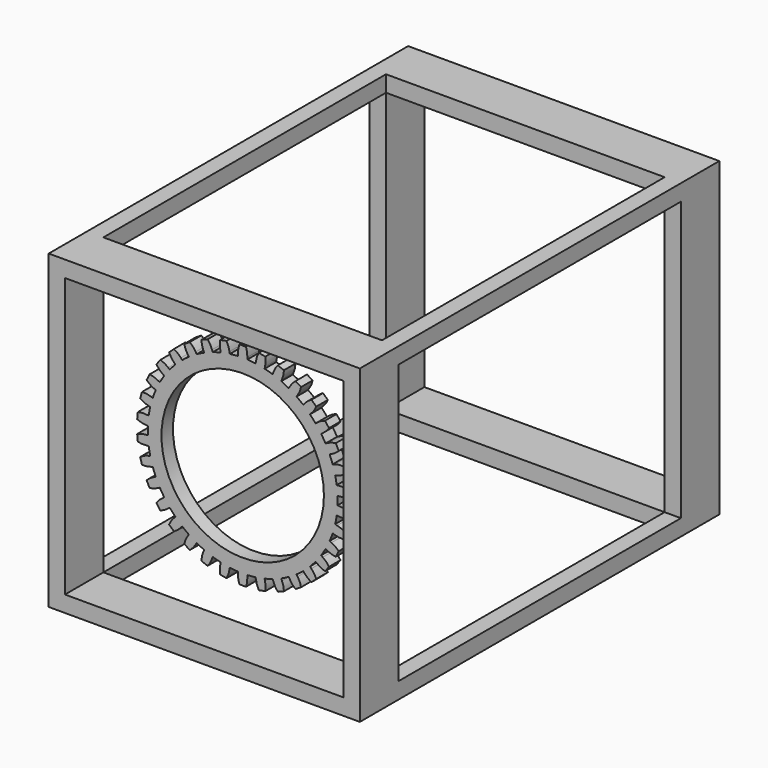
from build123d import *

# Parameters (mm, degrees)
F1_DEPTH = 7.62
F3_COUNT = 34
F0_R     = 42.9842697486
F4_DEPTH = 7.62
F5_W     = 8.5981115699
F5_H     = 8.5981115699
F5_H_2   = 147.4519222975
F5_W_2   = 147.4519222975
F6_DEPTH = 25.4
F7_DEPTH = 93.472


with BuildPart() as f1:
    # F0 (on Front) → F1 (new body)
    with BuildSketch(Plane.XZ):
        with BuildLine():
            Line((-2.442196905, 51.2510985136), (-2.442196905, 50.1810373966))
            ThreePointArc((-2.442196905, 50.1810373966), (-1.2214595003, 50.2255799031), (0, 50.2404303317))
            Line((0, 50.2404303317), (0, 55.908292532))
            Line((0, 55.908292532), (-1.7368304543, 55.908292532))
            add(Edge.make_bspline(
                [(-1.7368304543, 55.908292532), (-2.1937624551, 54.2130805552), (-2.442196905, 53.8102649152), (-2.442196905, 51.2510985136)],
                knots=[0, 0, 0, 0, 4.7103076284, 4.7103076284, 4.7103076284, 4.7103076284], degree=3))
        make_face()
        with BuildLine():
            ThreePointArc((0, 50.2404303317), (1.2214595003, 50.2255799031), (2.442196905, 50.1810373966))
            Line((2.442196905, 50.1810373966), (2.442196905, 51.2510985136))
            add(Edge.make_bspline(
                [(1.7368304543, 55.908292532), (2.1937624551, 54.2130805552), (2.442196905, 53.8102649152), (2.442196905, 51.2510985136)],
                knots=[0, 0, 0, 0, 4.7103076284, 4.7103076284, 4.7103076284, 4.7103076284], degree=3))
            Line((1.7368304543, 55.908292532), (0, 55.908292532))
            Line((0, 55.908292532), (0, 50.2404303317))
        make_face()
    extrude(amount=F1_DEPTH)


with BuildPart() as f3_1:
    # F3: instance of F1
    add(f1.part.rotate(Axis((0, -13.2732940838, 0), (0, -1, 0)), 1 * 360 / F3_COUNT))


with BuildPart() as f3_2:
    # F3: instance of F1
    add(f1.part.rotate(Axis((0, -13.2732940838, 0), (0, -1, 0)), 2 * 360 / F3_COUNT))


with BuildPart() as f3_3:
    # F3: instance of F1
    add(f1.part.rotate(Axis((0, -13.2732940838, 0), (0, -1, 0)), 3 * 360 / F3_COUNT))


with BuildPart() as f3_4:
    # F3: instance of F1
    add(f1.part.rotate(Axis((0, -13.2732940838, 0), (0, -1, 0)), 4 * 360 / F3_COUNT))


with BuildPart() as f3_5:
    # F3: instance of F1
    add(f1.part.rotate(Axis((0, -13.2732940838, 0), (0, -1, 0)), 5 * 360 / F3_COUNT))


with BuildPart() as f3_6:
    # F3: instance of F1
    add(f1.part.rotate(Axis((0, -13.2732940838, 0), (0, -1, 0)), 6 * 360 / F3_COUNT))


with BuildPart() as f3_7:
    # F3: instance of F1
    add(f1.part.rotate(Axis((0, -13.2732940838, 0), (0, -1, 0)), 7 * 360 / F3_COUNT))


with BuildPart() as f3_8:
    # F3: instance of F1
    add(f1.part.rotate(Axis((0, -13.2732940838, 0), (0, -1, 0)), 8 * 360 / F3_COUNT))


with BuildPart() as f3_9:
    # F3: instance of F1
    add(f1.part.rotate(Axis((0, -13.2732940838, 0), (0, -1, 0)), 9 * 360 / F3_COUNT))


with BuildPart() as f3_10:
    # F3: instance of F1
    add(f1.part.rotate(Axis((0, -13.2732940838, 0), (0, -1, 0)), 10 * 360 / F3_COUNT))


with BuildPart() as f3_11:
    # F3: instance of F1
    add(f1.part.rotate(Axis((0, -13.2732940838, 0), (0, -1, 0)), 11 * 360 / F3_COUNT))


with BuildPart() as f3_12:
    # F3: instance of F1
    add(f1.part.rotate(Axis((0, -13.2732940838, 0), (0, -1, 0)), 12 * 360 / F3_COUNT))


with BuildPart() as f3_13:
    # F3: instance of F1
    add(f1.part.rotate(Axis((0, -13.2732940838, 0), (0, -1, 0)), 13 * 360 / F3_COUNT))


with BuildPart() as f3_14:
    # F3: instance of F1
    add(f1.part.rotate(Axis((0, -13.2732940838, 0), (0, -1, 0)), 14 * 360 / F3_COUNT))


with BuildPart() as f3_15:
    # F3: instance of F1
    add(f1.part.rotate(Axis((0, -13.2732940838, 0), (0, -1, 0)), 15 * 360 / F3_COUNT))


with BuildPart() as f3_16:
    # F3: instance of F1
    add(f1.part.rotate(Axis((0, -13.2732940838, 0), (0, -1, 0)), 16 * 360 / F3_COUNT))


with BuildPart() as f3_17:
    # F3: instance of F1
    add(f1.part.rotate(Axis((0, -13.2732940838, 0), (0, -1, 0)), 17 * 360 / F3_COUNT))


with BuildPart() as f3_18:
    # F3: instance of F1
    add(f1.part.rotate(Axis((0, -13.2732940838, 0), (0, -1, 0)), 18 * 360 / F3_COUNT))


with BuildPart() as f3_19:
    # F3: instance of F1
    add(f1.part.rotate(Axis((0, -13.2732940838, 0), (0, -1, 0)), 19 * 360 / F3_COUNT))


with BuildPart() as f3_20:
    # F3: instance of F1
    add(f1.part.rotate(Axis((0, -13.2732940838, 0), (0, -1, 0)), 20 * 360 / F3_COUNT))


with BuildPart() as f3_21:
    # F3: instance of F1
    add(f1.part.rotate(Axis((0, -13.2732940838, 0), (0, -1, 0)), 21 * 360 / F3_COUNT))


with BuildPart() as f3_22:
    # F3: instance of F1
    add(f1.part.rotate(Axis((0, -13.2732940838, 0), (0, -1, 0)), 22 * 360 / F3_COUNT))


with BuildPart() as f3_23:
    # F3: instance of F1
    add(f1.part.rotate(Axis((0, -13.2732940838, 0), (0, -1, 0)), 23 * 360 / F3_COUNT))


with BuildPart() as f3_24:
    # F3: instance of F1
    add(f1.part.rotate(Axis((0, -13.2732940838, 0), (0, -1, 0)), 24 * 360 / F3_COUNT))


with BuildPart() as f3_25:
    # F3: instance of F1
    add(f1.part.rotate(Axis((0, -13.2732940838, 0), (0, -1, 0)), 25 * 360 / F3_COUNT))


with BuildPart() as f3_26:
    # F3: instance of F1
    add(f1.part.rotate(Axis((0, -13.2732940838, 0), (0, -1, 0)), 26 * 360 / F3_COUNT))


with BuildPart() as f3_27:
    # F3: instance of F1
    add(f1.part.rotate(Axis((0, -13.2732940838, 0), (0, -1, 0)), 27 * 360 / F3_COUNT))


with BuildPart() as f3_28:
    # F3: instance of F1
    add(f1.part.rotate(Axis((0, -13.2732940838, 0), (0, -1, 0)), 28 * 360 / F3_COUNT))


with BuildPart() as f3_29:
    # F3: instance of F1
    add(f1.part.rotate(Axis((0, -13.2732940838, 0), (0, -1, 0)), 29 * 360 / F3_COUNT))


with BuildPart() as f3_30:
    # F3: instance of F1
    add(f1.part.rotate(Axis((0, -13.2732940838, 0), (0, -1, 0)), 30 * 360 / F3_COUNT))


with BuildPart() as f3_31:
    # F3: instance of F1
    add(f1.part.rotate(Axis((0, -13.2732940838, 0), (0, -1, 0)), 31 * 360 / F3_COUNT))


with BuildPart() as f3_32:
    # F3: instance of F1
    add(f1.part.rotate(Axis((0, -13.2732940838, 0), (0, -1, 0)), 32 * 360 / F3_COUNT))


with BuildPart() as f3_33:
    # F3: instance of F1
    add(f1.part.rotate(Axis((0, -13.2732940838, 0), (0, -1, 0)), 33 * 360 / F3_COUNT))


with BuildPart() as f1_1:
    add(f1.part)

    add(f3_1.part)  # F4 merges F3_1

    add(f3_2.part)  # F4 merges F3_2

    add(f3_3.part)  # F4 merges F3_3

    add(f3_4.part)  # F4 merges F3_4

    add(f3_5.part)  # F4 merges F3_5

    add(f3_6.part)  # F4 merges F3_6

    add(f3_7.part)  # F4 merges F3_7

    add(f3_8.part)  # F4 merges F3_8

    add(f3_9.part)  # F4 merges F3_9

    add(f3_10.part)  # F4 merges F3_10

    add(f3_11.part)  # F4 merges F3_11

    add(f3_12.part)  # F4 merges F3_12

    add(f3_13.part)  # F4 merges F3_13

    add(f3_14.part)  # F4 merges F3_14

    add(f3_15.part)  # F4 merges F3_15

    add(f3_16.part)  # F4 merges F3_16

    add(f3_17.part)  # F4 merges F3_17

    add(f3_18.part)  # F4 merges F3_18

    add(f3_19.part)  # F4 merges F3_19

    add(f3_20.part)  # F4 merges F3_20

    add(f3_21.part)  # F4 merges F3_21

    add(f3_22.part)  # F4 merges F3_22

    add(f3_23.part)  # F4 merges F3_23

    add(f3_24.part)  # F4 merges F3_24

    add(f3_25.part)  # F4 merges F3_25

    add(f3_26.part)  # F4 merges F3_26

    add(f3_27.part)  # F4 merges F3_27

    add(f3_28.part)  # F4 merges F3_28

    add(f3_29.part)  # F4 merges F3_29

    add(f3_30.part)  # F4 merges F3_30

    add(f3_31.part)  # F4 merges F3_31

    add(f3_32.part)  # F4 merges F3_32

    add(f3_33.part)  # F4 merges F3_33
    # F0 (on Front) → F4 (join, through all)
    with BuildSketch(Plane.XZ):
        with BuildLine():
            ThreePointArc((2.442196905, 49.7882329409), (36.101047947, 34.3736352781), (49.8480938964, 0))
            ThreePointArc((49.8480938964, 0), (-34.3736352781, -36.101047947), (-2.442196905, 49.7882329409))
            Line((-2.442196905, 49.7882329409), (-2.442196905, 50.1810373966))
            ThreePointArc((-2.442196905, 50.1810373966), (-34.6511458429, -36.3785504342), (50.2404303317, 0))
            ThreePointArc((50.2404303317, 0), (36.3785504342, 34.6511458429), (2.442196905, 50.1810373966))
            Line((2.442196905, 50.1810373966), (2.442196905, 49.7882329409))
        make_face()
        with BuildLine():
            ThreePointArc((-2.442196905, 49.7882329409), (-34.3736352781, -36.101047947), (49.8480938964, 0))
            ThreePointArc((49.8480938964, 0), (36.101047947, 34.3736352781), (2.442196905, 49.7882329409))
            ThreePointArc((2.442196905, 49.7882329409), (1.221465212, 49.8331264104), (0, 49.8480938964))
            Line((0, 49.8480938964), (0, 49.7882329409))
            Line((0, 49.7882329409), (-2.442196905, 49.7882329409))
        make_face()
        Circle(F0_R, mode=Mode.SUBTRACT)
        with BuildLine():
            Line((-2.442196905, 50.1810373966), (-2.442196905, 49.7882329409))
            ThreePointArc((-2.442196905, 49.7882329409), (-1.221465212, 49.8331264104), (0, 49.8480938964))
            Line((0, 49.8480938964), (0, 50.2404303317))
            ThreePointArc((0, 50.2404303317), (-1.2214595003, 50.2255799031), (-2.442196905, 50.1810373966))
        make_face()
        with BuildLine():
            ThreePointArc((0, 49.8480938964), (1.221465212, 49.8331264104), (2.442196905, 49.7882329409))
            Line((2.442196905, 49.7882329409), (2.442196905, 50.1810373966))
            ThreePointArc((2.442196905, 50.1810373966), (1.2214595003, 50.2255799031), (0, 50.2404303317))
            Line((0, 50.2404303317), (0, 49.8480938964))
        make_face()
        with BuildLine():
            ThreePointArc((0, 49.8480938964), (-1.221465212, 49.8331264104), (-2.442196905, 49.7882329409))
            Line((-2.442196905, 49.7882329409), (0, 49.7882329409))
            Line((0, 49.7882329409), (0, 49.8480938964))
        make_face()
    extrude(amount=F4_DEPTH)


with BuildPart() as f6:
    # F5 (on face) → F6 (new body)
    with BuildSketch(Plane.XZ.offset(7.62)):
        with Locations((-78.0250169337, -78.0250169337)):
            Rectangle(F5_W, F5_H)
        Polygon((73.7259611487, -73.7259611487), (0, -73.7259611487), (-73.7259611487, -73.7259611487), (-73.7259611487, -82.3240727186), (73.7259611487, -82.3240727186), align=None)
        Polygon((-73.7259611487, -73.7259611487), (-73.7259611487, 0), (-73.7259611487, 73.7259611487), (-82.3240727186, 73.7259611487), (-82.3240727186, -73.7259611487), align=None)
        with Locations((78.0250169337, 0)):
            Rectangle(F5_W, F5_H_2)
        with Locations((78.0250169337, -78.0250169337)):
            Rectangle(F5_W, F5_H)
        with Locations((0, 78.0250169337)):
            Rectangle(F5_W_2, F5_H)
        with Locations((-78.0250169337, 78.0250169337)):
            Rectangle(F5_W, F5_H)
        with Locations((78.0250169337, 78.0250169337)):
            Rectangle(F5_W, F5_H)
    extrude(amount=F6_DEPTH)

    # F5 (on face) → F7 (join)
    with BuildSketch(Plane.XZ.offset(7.62)):
        with Locations((-78.0250169337, -78.0250169337)):
            Rectangle(F5_W, F5_H)
        with Locations((78.0250169337, -78.0250169337)):
            Rectangle(F5_W, F5_H)
        with Locations((78.0250169337, 78.0250169337)):
            Rectangle(F5_W, F5_H)
        with Locations((-78.0250169337, 78.0250169337)):
            Rectangle(F5_W, F5_H)
    extrude(amount=-F7_DEPTH)

    # F8: F6 across face


with BuildPart() as f6_1:
    add(f6.part)
    add(f6.part.mirror(Plane(origin=(78.0250169337, 85.852, 78.0250169337), x_dir=(1, 0, 0), z_dir=(0, 1, 0))))


solid = Compound([f1_1.part, f6_1.part])
